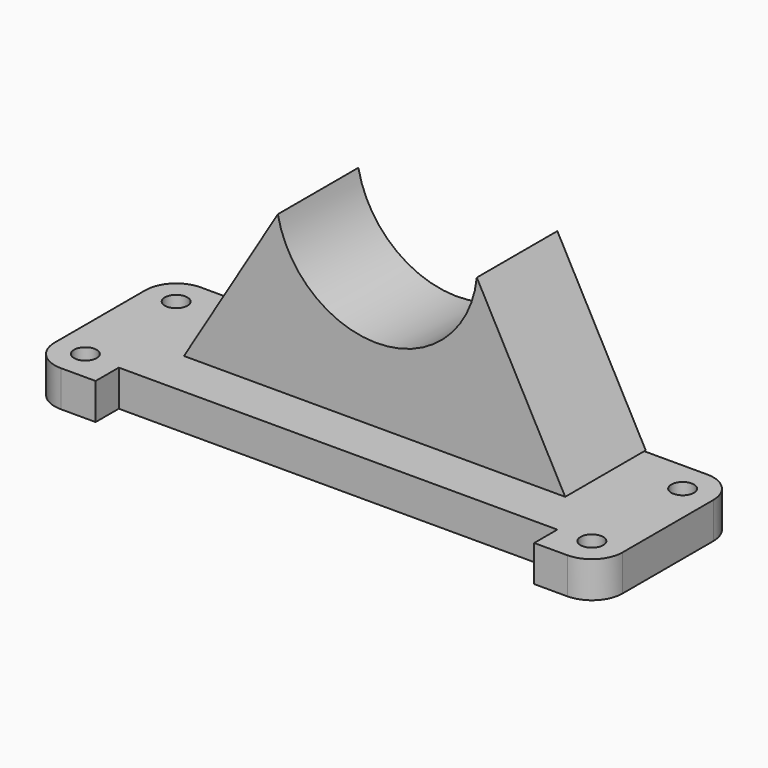
from build123d import *

# Parameters (mm, degrees)
F2_DEPTH = 10.16
F3_W     = 123.1050416827
F3_H     = 28.3880503848
F4_DEPTH = 10.161
F5_D     = 6.35
F8_DEPTH = 28.2554122016


with BuildPart() as f2:
    # F1 (on face) → F2 (new body)
    with BuildSketch(Plane.XY):
        with BuildLine():
            ThreePointArc((114.94692415, 18.357520923), (112.4229648917, 24.4508975952), (106.3295882195, 26.9748568535))
            Line((106.3295882195, 26.9748568535), (-35.8547288924, 26.9748568535))
            ThreePointArc((-35.8547288924, 26.9748568535), (-41.9481055646, 24.4508975952), (-44.4720648229, 18.357520923))
            Line((-44.4720648229, 18.357520923), (-44.4720648229, -13.49719055))
            ThreePointArc((-44.4720648229, -13.49719055), (-41.9481055646, -19.5905672222), (-35.8547288924, -22.1145264804))
            Line((-35.8547288924, -22.1145264804), (106.3295882195, -22.1145264804))
            ThreePointArc((106.3295882195, -22.1145264804), (112.4229648917, -19.5905672222), (114.94692415, -13.49719055))
            Line((114.94692415, -13.49719055), (114.94692415, 18.357520923))
        make_face()
    extrude(amount=F2_DEPTH)

    # F3 (on face) → F4 (cut, through all)
    with BuildSketch(Plane.XY.offset(10.16)):
        with Locations((35.4754142463, -28.1745805405)):
            Rectangle(F3_W, F3_H)
    extrude(amount=-F4_DEPTH, mode=Mode.SUBTRACT)

    # F5 (through all)
    with Locations(Plane(origin=(0, 0, 0), x_dir=(1, 0, 0), z_dir=(0, 0, -1))):
        with Locations((106.3295882195, -18.357520923), (106.3295882195, 13.49719055), (-35.8547288924, 13.49719055), (-35.8547288924, -18.357520923)):
            Hole(F5_D / 2)


with BuildPart() as f8:
    # F7 (on offset) → F8 (new body, through all)
    with BuildSketch(Plane.XZ.offset(1.2805553481)):
        with BuildLine():
            Line((8.4105487913, 54.1223697364), (-17.9456844926, 10.5090765283))
            Line((-17.9456844926, 10.5090765283), (89.0695827941, 10.5090765283))
            Line((89.0695827941, 10.5090765283), (64.2606690526, 56.632488966))
            ThreePointArc((64.2606690526, 56.632488966), (37.4166388516, 31.3245274547), (8.4105487913, 54.1223697364))
        make_face()
    extrude(amount=-F8_DEPTH)


solid = Compound([f2.part, f8.part])
